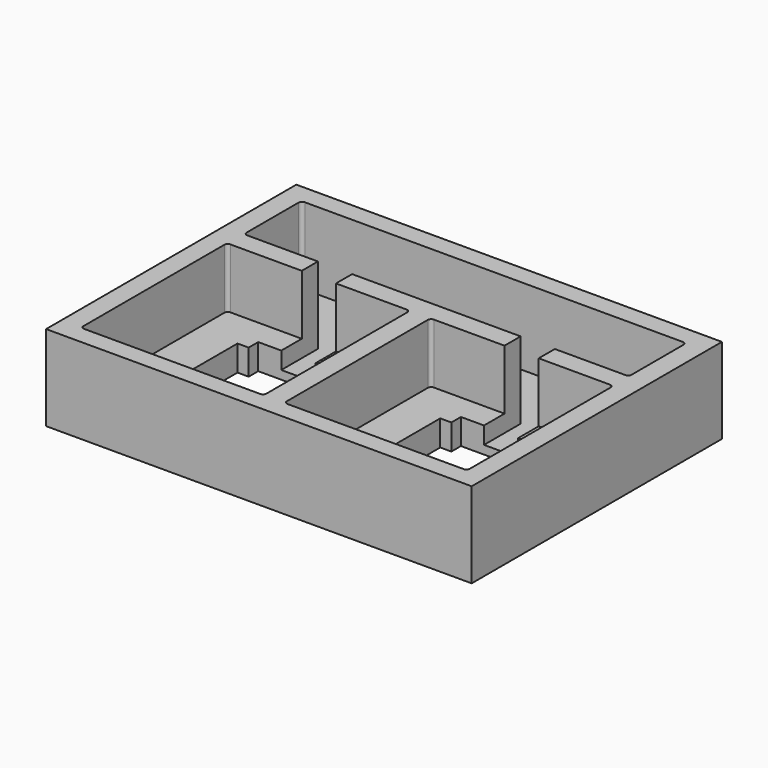
from build123d import *

# Parameters (mm, degrees)
SKETCH_W        = 249
SKETCH_H        = 183
PAD_DEPTH       = 50
POCKET_DEPTH    = 35
POCKET001_DEPTH = 50
POCKET002_DEPTH = 45


with BuildPart() as part:
    # Sketch → Pad (new body)
    with BuildSketch(Plane.XY):
        Rectangle(SKETCH_W, SKETCH_H)
    extrude(amount=-PAD_DEPTH)

    # Sketch001 → Pocket (cut)
    with BuildSketch(Plane.XY):
        with BuildLine():
            Line((-111, 26.5), (-8, 26.5))
            ThreePointArc((-6, 24.5), (-6.585786, 25.914214), (-8, 26.5))
            Line((-6, 24.5), (-6, -78.5))
            ThreePointArc((-8, -80.5), (-6.585786, -79.914214), (-6, -78.5))
            Line((-8, -80.5), (-111, -80.5))
            ThreePointArc((-113, -78.5), (-112.414214, -79.914214), (-111, -80.5))
            Line((-113, -78.5), (-113, 24.5))
            ThreePointArc((-111, 26.5), (-112.414214, 25.914214), (-113, 24.5))
        make_face()
        with BuildLine():
            Line((8, 26.5), (111, 26.5))
            ThreePointArc((113, 24.5), (112.414214, 25.914214), (111, 26.5))
            Line((113, 24.5), (113, -78.5))
            ThreePointArc((111, -80.5), (112.414214, -79.914214), (113, -78.5))
            Line((111, -80.5), (8, -80.5))
            ThreePointArc((6, -78.5), (6.585786, -79.914214), (8, -80.5))
            Line((6, -78.5), (6, 24.5))
            ThreePointArc((8, 26.5), (6.585786, 25.914214), (6, 24.5))
        make_face()
    extrude(amount=-POCKET_DEPTH, mode=Mode.SUBTRACT)

    # Sketch002 → Pocket001 (cut)
    with BuildSketch(Plane.XY):
        Polygon((-82.8, 4.5), (-89.3, 4.5), (-89.3, -58.5), (-82.8, -58.5), (-82.8, -65.5), (-35.8, -65.5), (-35.8, -58.5), (-29.3, -58.5), (-29.3, 4.5), (-35.8, 4.5), (-35.8, 11.5), (-82.8, 11.5), align=None)
        Polygon((35.8, 4.5), (29.3, 4.5), (29.3, -58.5), (35.8, -58.5), (35.8, -65.5), (82.8, -65.5), (82.8, -58.5), (89.3, -58.5), (89.3, 4.5), (82.8, 4.5), (82.8, 11.5), (35.8, 11.5), align=None)
    extrude(amount=-POCKET001_DEPTH, mode=Mode.SUBTRACT)

    # Sketch003 → Pocket002 (cut)
    with BuildSketch(Plane.XY):
        with BuildLine():
            ThreePointArc((-110.6, 80.3), (-112.014214, 79.714214), (-112.6, 78.3))
            Line((-112.6, 40.3), (-112.6, 78.3))
            ThreePointArc((-112.6, 40.3), (-112.014214, 38.885786), (-110.6, 38.3))
            Line((-110.6, 38.3), (-69.3, 38.3))
            Line((-69.3, 38.3), (-69.3, 4.5))
            Line((-69.3, 4.5), (-89.3, 4.5))
            Line((-89.3, 4.5), (-89.3, -58.5))
            Line((-89.3, -58.5), (-82.8, -58.5))
            Line((-82.8, -58.5), (-82.8, -65.5))
            Line((-82.8, -65.5), (-35.8, -65.5))
            Line((-35.8, -65.5), (-35.8, -58.5))
            Line((-35.8, -58.5), (-29.3, -58.5))
            Line((-29.3, -58.5), (-29.3, 4.5))
            Line((-29.3, 4.5), (-49.3, 4.5))
            Line((-49.3, 4.5), (-49.3, 38.3))
            Line((-49.3, 38.3), (49.3, 38.3))
            Line((49.3, 38.3), (49.3, 4.5))
            Line((49.3, 4.5), (29.3, 4.5))
            Line((29.3, 4.5), (29.3, -58.5))
            Line((29.3, -58.5), (35.8, -58.5))
            Line((35.8, -58.5), (35.8, -65.5))
            Line((35.8, -65.5), (82.8, -65.5))
            Line((82.8, -65.5), (82.8, -58.5))
            Line((82.8, -58.5), (89.3, -58.5))
            Line((89.3, -58.5), (89.3, 4.5))
            Line((89.3, 4.5), (69.3, 4.5))
            Line((69.3, 4.5), (69.3, 38.3))
            Line((69.3, 38.3), (110.599996, 38.3))
            ThreePointArc((110.599996, 38.3), (112.01421, 38.885786), (112.599996, 40.3))
            Line((112.599996, 78.3), (112.599996, 40.3))
            ThreePointArc((112.599996, 78.3), (112.01421, 79.714214), (110.599996, 80.3))
            Line((-110.6, 80.3), (110.599996, 80.3))
        make_face()
    extrude(amount=-POCKET002_DEPTH, mode=Mode.SUBTRACT)


solid = part.part
